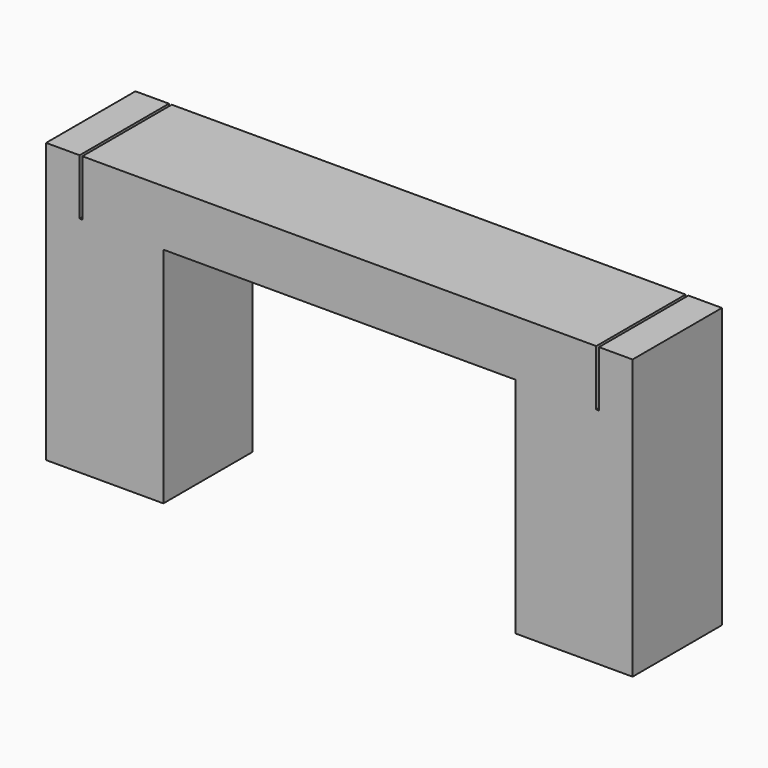
from build123d import *

# Parameters (mm, degrees)
F0_W     = 210
F0_H     = 200
F1_DEPTH = 400
F2_W     = 920
F2_H     = 200
F3_DEPTH = 100
F4_W     = 60
F4_H     = 200
F5_DEPTH = 100


with BuildPart() as f1:
    # F0 (on Top) → F1 (new body)
    with BuildSketch(Plane.XY):
        with Locations((-420, -100)):
            Rectangle(F0_W, F0_H)
        with Locations((420, -100)):
            Rectangle(F0_W, F0_H)
    extrude(amount=F1_DEPTH)

    # F2 (on face) → F3 (join)
    with BuildSketch(Plane.XY.offset(400)):
        with Locations((0, -100)):
            Rectangle(F2_W, F2_H)
    extrude(amount=F3_DEPTH)

    # F4 (on face) → F5 (join)
    with BuildSketch(Plane.XY.offset(400)):
        with Locations((-495, -100)):
            Rectangle(F4_W, F4_H)
        with Locations((495, -100)):
            Rectangle(F4_W, F4_H)
    extrude(amount=F5_DEPTH)


solid = f1.part
